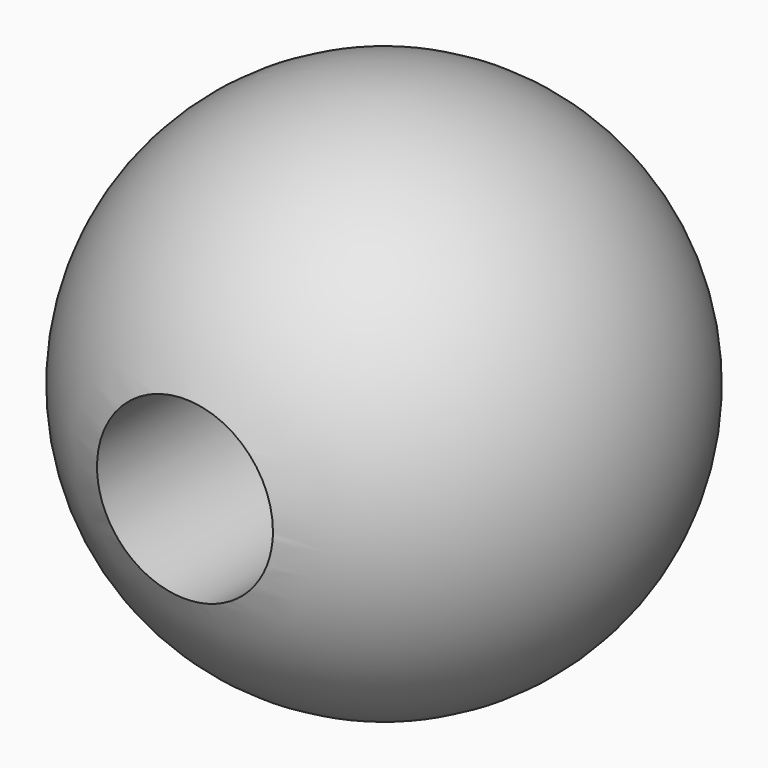
from build123d import *

# Parameters (mm, degrees)
F3_R     = 3.175
F4_DEPTH = 25.4


with BuildPart() as f2:
    # F0 (on Front) → F2 (revolve)
    with BuildSketch(Plane.XZ):
        with BuildLine():
            Line((0, -9.525), (0, 9.525))
            ThreePointArc((0, 9.525), (-9.525, 0), (0, -9.525))
        make_face()
    revolve(axis=Axis((0, 0, 0), (0, 0, 1)))


with BuildPart() as f4:
    # F3 (on Front) → F4 (new body)
    with BuildSketch(Plane.XZ):
        Circle(F3_R)
    extrude(amount=F4_DEPTH)


with BuildPart() as f2_1:
    add(f2.part)

    # F5: cut F4
    add(f4.part, mode=Mode.SUBTRACT)


solid = f2_1.part
